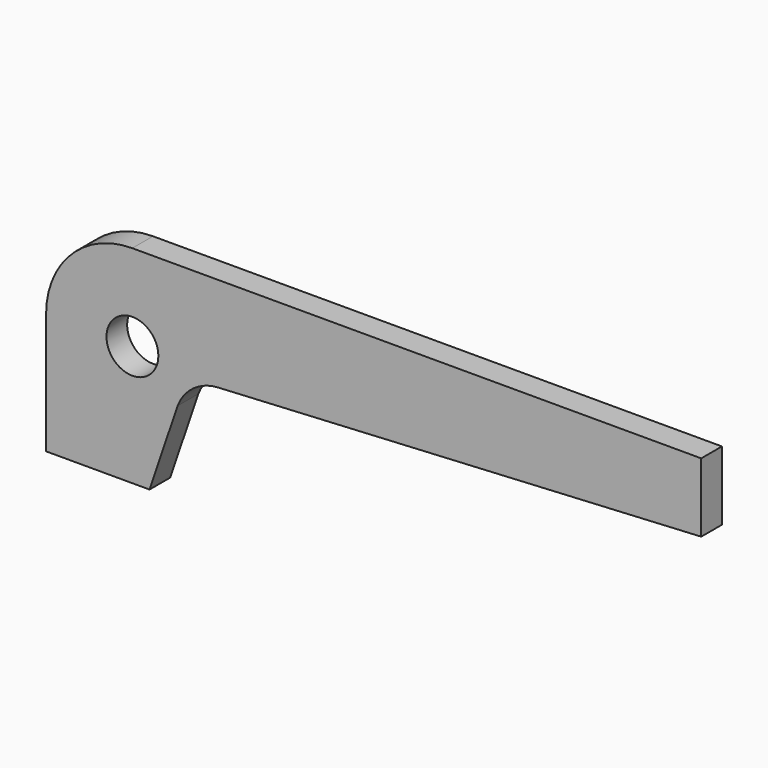
from build123d import *

# Parameters (mm, degrees)
F1_DEPTH = 2.38125
F2_R     = 2.3876
F3_DEPTH = 25.4


with BuildPart() as f1:
    # F0 (on Front) → F1 (new body)
    with BuildSketch(Plane.XZ):
        with BuildLine():
            Line((60.325, 19.05), (7.9375, 19.05))
            ThreePointArc((7.9375, 19.05), (2.32484, 16.72516), (0, 11.1125))
            Line((0, 11.1125), (0, 0))
            Line((0, 0), (9.525, 0))
            Line((9.525, 0), (12.110345, 7.626242))
            ThreePointArc((12.110345, 7.626242), (13.572178, 9.524798), (15.8308, 10.324854))
            Line((15.8308, 10.324854), (60.325, 12.7))
            Line((60.325, 12.7), (60.325, 19.05))
        make_face()
    extrude(amount=F1_DEPTH)

    # F2 (on face) → F3 (cut)
    with BuildSketch(Plane.XZ.offset(2.38125)):
        with Locations((7.9502, 11.09981)):
            Circle(F2_R)
    extrude(amount=-F3_DEPTH, mode=Mode.SUBTRACT)


solid = f1.part
